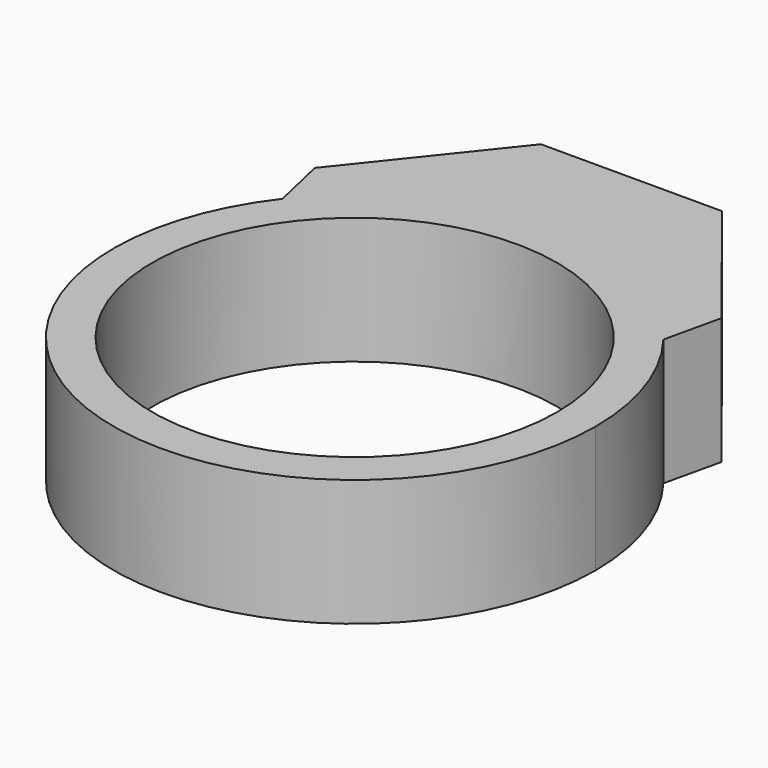
from build123d import *

# Parameters (mm, degrees)
F0_R     = 7.575
F1_DEPTH = 4.74


with BuildPart() as f1:
    # F0 (on Top) → F1 (new body)
    with BuildSketch(Plane.XY):
        with BuildLine():
            ThreePointArc((-7.128206, 5.534247), (-2.925035, -8.537176), (9.024367, 0))
            ThreePointArc((9.024367, 0), (8.537176, 2.925035), (7.128205, 5.534247))
            ThreePointArc((7.128205, 5.534247), (0, 9.024367), (-7.128206, 5.534247))
        make_face()
        Circle(F0_R, mode=Mode.SUBTRACT)
        with BuildLine():
            ThreePointArc((-7.128206, 5.534247), (0, 9.024367), (7.128205, 5.534247))
            Line((7.128205, 5.534247), (7.611939, 7.653624))
            Line((7.611939, 7.653624), (3.387632, 12.950739))
            Line((3.387632, 12.950739), (-3.387632, 12.950739))
            Line((-3.387632, 12.950739), (-7.61194, 7.653624))
            Line((-7.61194, 7.653624), (-7.128206, 5.534247))
        make_face()
    extrude(amount=F1_DEPTH)


solid = f1.part
